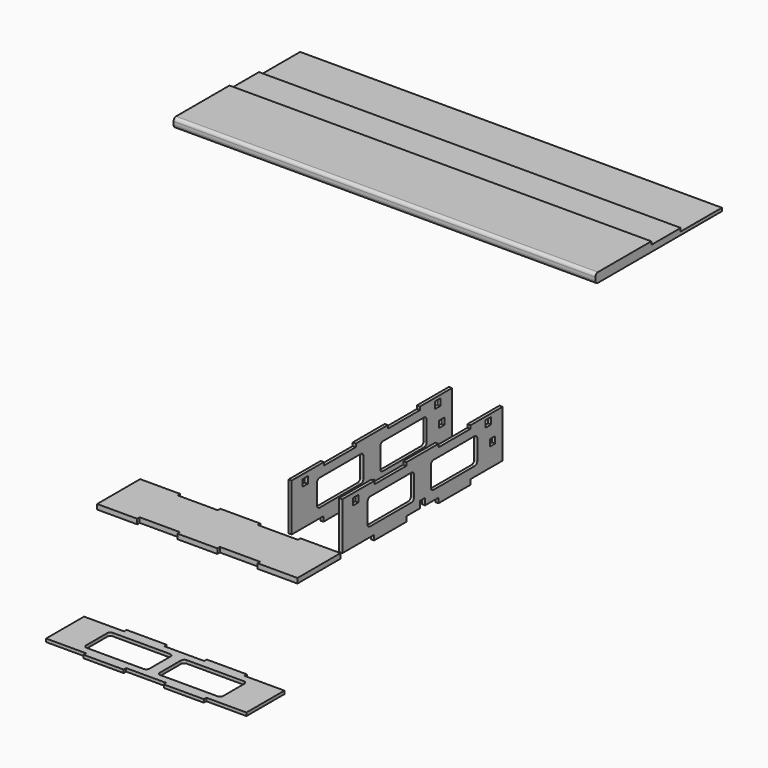
from build123d import *

# Parameters (mm, degrees)
F1_DEPTH  = 200
F3_W      = 6.35
F3_H      = 6.35
F3_W_2    = 6.3
F3_H_2    = 6.3
F4_DEPTH  = 3
F8_DEPTH  = 4.7
F10_DEPTH = 3
F11_ANGLE = 90
F12_ANGLE = 90


with BuildPart() as f1:
    # F0 (on Right) → F1 (new body, symmetric)
    with BuildSketch(Plane.YZ):
        with BuildLine():
            ThreePointArc((-94.3263925612, 113.5500805231), (-93.4477129048, 111.4287601796), (-91.3263925612, 110.5500805231))
            Line((-91.3263925612, 110.5500805231), (55.6736074388, 110.5500805231))
            Line((55.6736074388, 110.5500805231), (55.6736074388, 113.5500805231))
            Line((55.6736074388, 113.5500805231), (6.8612607847, 113.5500805231))
            Line((6.8612607847, 113.5500805231), (6.8612607847, 116.5500805231))
            Line((6.8612607847, 116.5500805231), (-28.055607224, 116.5500805231))
            Line((-28.055607224, 116.5500805231), (-28.055607224, 119.5500805231))
            Line((-28.055607224, 119.5500805231), (-91.3263925612, 119.5500805231))
            ThreePointArc((-91.3263925612, 119.5500805231), (-93.4477129048, 118.6714008667), (-94.3263925612, 116.5500805231))
            Line((-94.3263925612, 116.5500805231), (-94.3263925612, 113.5500805231))
        make_face()
    extrude(amount=F1_DEPTH, both=True)


with BuildPart() as f4:
    # F3 (on offset) → F4 (new body)
    with BuildSketch(Plane.YZ.offset(22.5)):
        Polygon((-138.1970100239, -92.3620197535), (-176.1970100239, -92.3620197535), (-176.1970100239, -137.3620197535), (-138.5380327702, -137.3620197535), (-138.5380327702, -142.0620197535), (-100.1970100239, -142.0620197535), (-100.1970100239, -137.3620197535), (-84.3470100239, -137.3620197535), (-84.3470100239, -131.0620197535), (-78.0470100239, -131.0620197535), (-78.0470100239, -137.3620197535), (-62.1970100239, -137.3620197535), (-62.1970100239, -142.0620197535), (-24.1970100239, -142.0620197535), (-24.1970100239, -137.3620197535), (13.8029899761, -137.3620197535), (13.8029899761, -92.3620197535), (-24.1970100239, -92.3620197535), (-24.1970100239, -95.3620197535), (-62.1970100239, -95.3620197535), (-62.1970100239, -92.3620197535), (-100.1970100239, -92.3620197535), (-100.1970100239, -95.3620197535), (-138.1970100239, -95.3620197535), align=None)
        with BuildLine():
            ThreePointArc((-146.1970100239, -106.4088677168), (-145.3183303675, -104.2875473732), (-143.1970100239, -103.4088677168))
            Line((-143.1970100239, -103.4088677168), (-94.1970100239, -103.4088677168))
            ThreePointArc((-94.1970100239, -103.4088677168), (-92.0756896803, -104.2875473732), (-91.1970100239, -106.4088677168))
            Line((-91.1970100239, -106.4088677168), (-91.1970100239, -125.4088677168))
            ThreePointArc((-91.1970100239, -125.4088677168), (-92.0756896803, -127.5301880603), (-94.1970100239, -128.4088677168))
            Line((-94.1970100239, -128.4088677168), (-143.1970100239, -128.4088677168))
            ThreePointArc((-143.1970100239, -128.4088677168), (-145.3183303675, -127.5301880603), (-146.1970100239, -125.4088677168))
            Line((-146.1970100239, -125.4088677168), (-146.1970100239, -106.4088677168))
        make_face(mode=Mode.SUBTRACT)
        with Locations((-160.2391207695, -99.5838677168)):
            Rectangle(F3_W, F3_H, mode=Mode.SUBTRACT)
        with BuildLine():
            ThreePointArc((-71.1970100239, -106.4088677168), (-70.3183303675, -104.2875473732), (-68.1970100239, -103.4088677168))
            Line((-68.1970100239, -103.4088677168), (-19.1970100239, -103.4088677168))
            ThreePointArc((-19.1970100239, -103.4088677168), (-17.0756896803, -104.2875473732), (-16.1970100239, -106.4088677168))
            Line((-16.1970100239, -106.4088677168), (-16.1970100239, -125.4088677168))
            ThreePointArc((-16.1970100239, -125.4088677168), (-17.0756896803, -127.5301880603), (-19.1970100239, -128.4088677168))
            Line((-19.1970100239, -128.4088677168), (-68.1970100239, -128.4088677168))
            ThreePointArc((-68.1970100239, -128.4088677168), (-70.3183303675, -127.5301880603), (-71.1970100239, -125.4088677168))
            Line((-71.1970100239, -125.4088677168), (-71.1970100239, -106.4088677168))
        make_face(mode=Mode.SUBTRACT)
        with Locations((1.8029899761, -116.3620197535)):
            Rectangle(F3_W_2, F3_H_2, mode=Mode.SUBTRACT)
        with Locations((-3.0470100239, -98.5120197535)):
            Rectangle(F3_W_2, F3_H_2, mode=Mode.SUBTRACT)
    extrude(amount=F4_DEPTH)


with BuildPart() as f5_1:
    # F5: instance of F4
    add(f4.part.mirror(Plane.YZ))


with BuildPart() as f8:
    # F7 (on offset) → F8 (new body)
    with BuildSketch(Plane.XY.offset(-150)):
        Polygon((-36.1402705312, -406.0540434718), (-33.1402705312, -406.0540434718), (11.8597294688, -406.0540434718), (14.8597294688, -406.0540434718), (14.8597294688, -368.0540434718), (11.8597294688, -368.0540434718), (11.8597294688, -330.0540434718), (14.8597294688, -330.0540434718), (14.8597294688, -292.0540434718), (11.8597294688, -292.0540434718), (11.8597294688, -254.0540434718), (14.8597294688, -254.0540434718), (14.8597294688, -216.0540434718), (11.8597294688, -216.0540434718), (-33.1402705312, -216.0540434718), (-36.1402705312, -216.0540434718), (-36.1402705312, -254.0540434718), (-33.1402705312, -254.0540434718), (-33.1402705312, -292.0540434718), (-36.1402705312, -292.0540434718), (-36.1402705312, -330.0540434718), (-33.1402705312, -330.0540434718), (-33.1402705312, -368.0540434718), (-36.1402705312, -368.0540434718), align=None)
    extrude(amount=F8_DEPTH)


with BuildPart() as f10:
    # F9 (on offset) → F10 (new body)
    with BuildSketch(Plane.XY.offset(-150)):
        Polygon((-116.9032526016, -367.6123911142), (-116.9032526016, -405.6123911142), (-71.9032526016, -405.6123911142), (-71.9032526016, -367.6123911142), (-68.9032526016, -367.6123911142), (-68.9032526016, -329.6123911142), (-71.9032526016, -329.6123911142), (-71.9032526016, -291.6123911142), (-68.9032526016, -291.6123911142), (-68.9032526016, -253.6123911142), (-71.9032526016, -253.6123911142), (-71.9032526016, -215.6123911142), (-116.9032526016, -215.6123911142), (-116.9032526016, -253.6123911142), (-119.9032526016, -253.6123911142), (-119.9032526016, -291.6123911142), (-116.9032526016, -291.6123911142), (-116.9032526016, -329.6123911142), (-119.9032526016, -329.6123911142), (-119.9032526016, -367.6123911142), align=None)
        with BuildLine():
            Line((-81.9032526016, -375.6123911142), (-106.9032526016, -375.6123911142))
            ThreePointArc((-106.9032526016, -375.6123911142), (-109.0245729452, -374.7337114578), (-109.9032526016, -372.6123911142))
            Line((-109.9032526016, -372.6123911142), (-109.9032526016, -318.6123911142))
            ThreePointArc((-109.9032526016, -318.6123911142), (-109.0245729452, -316.4910707707), (-106.9032526016, -315.6123911142))
            Line((-106.9032526016, -315.6123911142), (-81.9032526016, -315.6123911142))
            ThreePointArc((-81.9032526016, -315.6123911142), (-79.7819322581, -316.4910707707), (-78.9032526016, -318.6123911142))
            Line((-78.9032526016, -318.6123911142), (-78.9032526016, -372.6123911142))
            ThreePointArc((-78.9032526016, -372.6123911142), (-79.7819322581, -374.7337114578), (-81.9032526016, -375.6123911142))
        make_face(mode=Mode.SUBTRACT)
        with BuildLine():
            Line((-81.9032526016, -305.6123911142), (-106.9032526016, -305.6123911142))
            ThreePointArc((-106.9032526016, -305.6123911142), (-109.0245729452, -304.7337114578), (-109.9032526016, -302.6123911142))
            Line((-109.9032526016, -302.6123911142), (-109.9032526016, -248.6123911142))
            ThreePointArc((-109.9032526016, -248.6123911142), (-109.0245729452, -246.4910707707), (-106.9032526016, -245.6123911142))
            Line((-106.9032526016, -245.6123911142), (-81.9032526016, -245.6123911142))
            ThreePointArc((-81.9032526016, -245.6123911142), (-79.7819322581, -246.4910707707), (-78.9032526016, -248.6123911142))
            Line((-78.9032526016, -248.6123911142), (-78.9032526016, -302.6123911142))
            ThreePointArc((-78.9032526016, -302.6123911142), (-79.7819322581, -304.7337114578), (-81.9032526016, -305.6123911142))
        make_face(mode=Mode.SUBTRACT)
    extrude(amount=F10_DEPTH)


with BuildPart() as f8_1:
    # F11: moved
    add(f8.part.rotate(Axis((14.8597294688, -216.0540434718, -147.65), (0, 0, -1)), F11_ANGLE))


with BuildPart() as f10_1:
    # F12: moved
    add(f10.part.rotate(Axis((-71.9032526016, -405.6123911142, -148.5), (0, 0, -1)), F12_ANGLE))


solid = Compound([f1.part, f4.part, f5_1.part, f8_1.part, f10_1.part])
